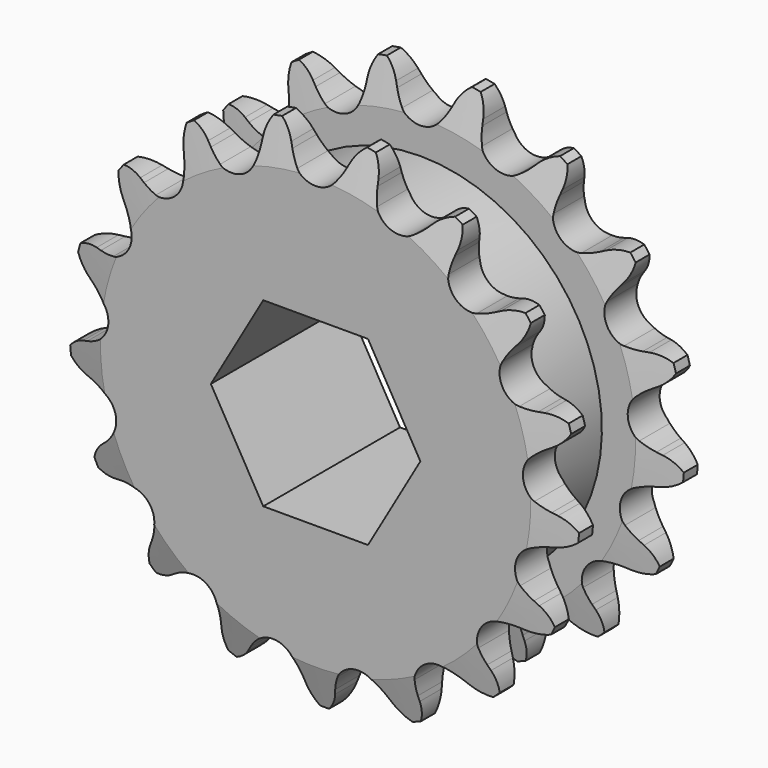
from build123d import *

# Parameters (mm, degrees)
F0_W     = 2.794
F0_H     = 5.1562
F0_H_2   = 9.525
F0_W_2   = 6.3754
F2_SIZE2 = 0.7874
F2_SIZE  = 2.794
F3_SIZE2 = 2.794
F3_SIZE  = 0.7874
F5_DEPTH = 11.9644
F7_DEPTH = 11.9644001


with BuildPart() as f1:
    # F0 (on Right) → F1 (revolve)
    with BuildSketch(Plane.YZ):
        with Locations((1.397, 15.2781)):
            Rectangle(F0_W, F0_H)
        with Locations((1.397, 7.9375)):
            Rectangle(F0_W, F0_H_2)
        with Locations((5.9817, 7.9375)):
            Rectangle(F0_W_2, F0_H_2)
        Polygon((9.1694, 12.7), (9.1694, 3.175), (11.9634, 3.175), (11.9634, 17.8562), (9.1694, 17.8562), align=None)
    revolve(axis=Axis((0, 5.8612824179, 0), (0, 1, 0)))

    # F2
    f2_edges = [f1.edges().sort_by_distance(p)[0] for p in [
        (0, 0, -17.8562),
        (0, 2.794, -17.8562),
    ]]
    chamfer(f2_edges, length=F2_SIZE, length2=F2_SIZE2)

    # F3
    f3_edges = [f1.edges().sort_by_distance(p)[0] for p in [
        (0, 11.9634, -17.8562),
        (0, 9.1694, -17.8562),
    ]]
    f3_side = f1.faces().sort_by_distance((0, 10.5664, -17.8562))[0]
    chamfer(f3_edges, length=F3_SIZE, length2=F3_SIZE2, reference=f3_side)

    # F4 (on face) → F5 (intersect, through all)
    with BuildSketch(Plane.XZ):
        with BuildLine():
            ThreePointArc((-1.3242360534, 15.2122382035), (-1.6399658803, 15.6610598977), (-1.8965305961, 16.1461380185))
            Line((-1.8965305961, 16.1461380185), (-2.0521895801, 16.4916881494))
            ThreePointArc((-2.0521895801, 16.4916881494), (-2.5760346788, 17.2647203326), (-3.330257216, 17.8153025772))
            ThreePointArc((-3.330257216, 17.8153025772), (-3.8346555392, 17.0294433181), (-4.0438751124, 16.1193775986))
            Line((-4.0438751124, 16.1193775986), (-4.0641956872, 15.7409311869))
            ThreePointArc((-4.0641956872, 15.7409311869), (-4.1282047311, 15.1959274447), (-4.26048093, 14.6633589102))
            ThreePointArc((-4.26048093, 14.6633589102), (-5.2658414425, 13.5927036364), (-6.7301076201, 13.7066204334))
            ThreePointArc((-6.7301076201, 13.7066204334), (-7.1866500122, 14.0110794305), (-7.6011199134, 14.3707194419))
            Line((-7.6011199134, 14.3707194419), (-7.8710946982, 14.6367048321))
            ThreePointArc((-7.8710946982, 14.6367048321), (-8.6388171391, 15.168301199), (-9.5410019573, 15.4092472461))
            ThreePointArc((-9.5410019573, 15.4092472461), (-9.7274542781, 14.4942456201), (-9.5937920631, 13.5700557825))
            Line((-9.5937920631, 13.5700557825), (-9.4760298224, 13.209824375))
            ThreePointArc((-9.4760298224, 13.209824375), (-9.3388384185, 12.6785007868), (-9.2697963558, 12.1341117436))
            ThreePointArc((-9.2697963558, 12.1341117436), (-9.8205018192, 10.7725773269), (-11.2270408598, 10.3498476229))
            ThreePointArc((-11.2270408598, 10.3498476229), (-11.7627372374, 10.4688250482), (-12.2791358671, 10.6544555737))
            Line((-12.2791358671, 10.6544555737), (-12.6269648621, 10.8049534224))
            ThreePointArc((-12.6269648621, 10.8049534224), (-13.5348794755, 11.0233189381), (-14.4631815157, 10.9220876889))
            ThreePointArc((-14.4631815157, 10.9220876889), (-14.3065064151, 10.0015197357), (-13.8480142347, 9.1880227387))
            Line((-13.8480142347, 9.1880227387), (-13.6080736217, 8.8946575831))
            ThreePointArc((-13.6080736217, 8.8946575831), (-13.2882102291, 8.4487723436), (-13.027174418, 7.9660855486))
            ThreePointArc((-13.027174418, 7.9660855486), (-13.0488490079, 6.4975547565), (-14.2077000202, 5.5952705404))
            ThreePointArc((-14.2077000202, 5.5952705404), (-14.7502016191, 5.5126978334), (-15.2987864809, 5.4992484419))
            Line((-15.2987864809, 5.4992484419), (-15.677493453, 5.5139331807))
            ThreePointArc((-15.677493453, 5.5139331807), (-16.6029813394, 5.3895763723), (-17.4320282672, 4.9598396679))
            ThreePointArc((-17.4320282672, 4.9598396679), (-16.9533855856, 4.1580331907), (-16.2319853493, 3.5650963114))
            Line((-16.2319853493, 3.5650963114), (-15.9022716734, 3.3782179976))
            ThreePointArc((-15.9022716734, 3.3782179976), (-15.4429356158, 3.0779903792), (-15.0251603889, 2.7221953587))
            ThreePointArc((-15.0251603889, 2.7221953587), (-14.5148768319, 1.345001412), (-15.2695305653, 0.0850211669))
            ThreePointArc((-15.2695305653, 0.0850211669), (-15.7455695385, -0.1879497707), (-16.252251207, -0.3986626643))
            Line((-16.252251207, -0.3986626643), (-16.610689681, -0.5217742908))
            ThreePointArc((-16.610689681, -0.5217742908), (-17.4287585731, -0.9720583473), (-18.0465830071, -1.6722621836))
            ThreePointArc((-18.0465830071, -1.6722621836), (-17.3106160908, -2.2470187772), (-16.423736898, -2.5393161275))
            Line((-16.423736898, -2.5393161275), (-16.0487798181, -2.5944686478))
            ThreePointArc((-16.0487798181, -2.5944686478), (-15.5120069753, -2.7084912417), (-14.9939151921, -2.8893423986))
            ThreePointArc((-14.9939151921, -2.8893423986), (-14.0205901101, -3.9892018261), (-14.2691263962, -5.4367107863))
            ThreePointArc((-14.2691263962, -5.4367107863), (-14.6144110424, -5.8632137169), (-15.0107593507, -6.2427321687))
            Line((-15.0107593507, -6.2427321687), (-15.3005202246, -6.4870132531))
            ThreePointArc((-15.3005202246, -6.4870132531), (-15.9006853854, -7.2024112007), (-16.2238467122, -8.078515761))
            ThreePointArc((-16.2238467122, -8.078515761), (-15.3299519715, -8.3485984081), (-14.3973717715, -8.3007798527))
            Line((-14.3973717715, -8.3007798527), (-14.027811319, -8.2167579259))
            ThreePointArc((-14.027811319, -8.2167579259), (-13.4860958377, -8.1291761121), (-12.9376586644, -8.1106584546))
            ThreePointArc((-12.9376586644, -8.1106584546), (-11.6327450031, -8.7846412526), (-11.3415976393, -10.2241848219))
            ThreePointArc((-11.3415976393, -10.2241848219), (-11.5094953539, -10.7466181614), (-11.7419812666, -11.2436861015))
            Line((-11.7419812666, -11.2436861015), (-11.9239307288, -11.5761451297))
            ThreePointArc((-11.9239307288, -11.5761451297), (-12.2251365276, -12.4600385116), (-12.2099900194, -13.3937210202))
            ThreePointArc((-12.2099900194, -13.3937210202), (-11.2788928923, -13.3226535627), (-10.4265618087, -12.9411772625))
            Line((-10.4265618087, -12.9411772625), (-10.1123091705, -12.7293285155))
            ThreePointArc((-10.1123091705, -12.7293285155), (-9.6388127283, -12.4519707033), (-9.134099644, -12.2365851436))
            ThreePointArc((-9.134099644, -12.2365851436), (-7.6738332242, -12.3936662006), (-6.8823232753, -13.6308260432))
            ThreePointArc((-6.8823232753, -13.6308260432), (-6.8501585414, -14.1786322741), (-6.8873835479, -14.7261179229))
            Line((-6.8873835479, -14.7261179229), (-6.9369483152, -15.101854461))
            ThreePointArc((-6.9369483152, -15.101854461), (-6.89851524, -16.0348685779), (-6.5471065166, -16.9000300385))
            ThreePointArc((-6.5471065166, -16.9000300385), (-5.7045568294, -16.4974105304), (-5.0475868981, -15.8337969734))
            Line((-5.0475868981, -15.8337969734), (-4.8310836342, -15.5227327534))
            ThreePointArc((-4.8310836342, -15.5227327534), (-4.4897545494, -15.0930576522), (-4.096929853, -14.7098932037))
            ThreePointArc((-4.096929853, -14.7098932037), (-2.6785277462, -14.3288578525), (-1.4935530166, -15.1965486763))
            ThreePointArc((-1.4935530166, -15.1965486763), (-1.26566986, -15.6957435317), (-1.1026065168, -16.2197059185))
            Line((-1.1026065168, -16.2197059185), (-1.0130925928, -16.587974665))
            ThreePointArc((-1.0130925928, -16.587974665), (-0.6402112432, -17.4441007906), (0, -18.1238963537))
            ThreePointArc((0, -18.1238963537), (0.6402112432, -17.4441007906), (1.0130925928, -16.587974665))
            Line((1.0130925928, -16.587974665), (1.1026065168, -16.2197059185))
            ThreePointArc((1.1026065168, -16.2197059185), (1.26566986, -15.6957435317), (1.4935530166, -15.1965486763))
            ThreePointArc((1.4935530166, -15.1965486763), (2.6785277462, -14.3288578525), (4.096929853, -14.7098932037))
            ThreePointArc((4.096929853, -14.7098932037), (4.4897545494, -15.0930576522), (4.8310836342, -15.5227327534))
            Line((4.8310836342, -15.5227327534), (5.0475868981, -15.8337969734))
            ThreePointArc((5.0475868981, -15.8337969734), (5.7045568294, -16.4974105304), (6.5471065166, -16.9000300385))
            ThreePointArc((6.5471065166, -16.9000300385), (6.89851524, -16.0348685779), (6.9369483152, -15.101854461))
            Line((6.9369483152, -15.101854461), (6.8873835479, -14.7261179229))
            ThreePointArc((6.8873835479, -14.7261179229), (6.8501585414, -14.1786322741), (6.8823232753, -13.6308260432))
            ThreePointArc((6.8823232753, -13.6308260432), (7.6738332242, -12.3936662006), (9.134099644, -12.2365851436))
            ThreePointArc((9.134099644, -12.2365851436), (9.6388127283, -12.4519707033), (10.1123091705, -12.7293285155))
            Line((10.1123091705, -12.7293285155), (10.4265618087, -12.9411772625))
            ThreePointArc((10.4265618087, -12.9411772625), (11.2788928923, -13.3226535627), (12.2099900194, -13.3937210202))
            ThreePointArc((12.2099900194, -13.3937210202), (12.2251365276, -12.4600385116), (11.9239307288, -11.5761451297))
            Line((11.9239307288, -11.5761451297), (11.7419812666, -11.2436861015))
            ThreePointArc((11.7419812666, -11.2436861015), (11.5094953539, -10.7466181614), (11.3415976393, -10.2241848219))
            ThreePointArc((11.3415976393, -10.2241848219), (11.6327450031, -8.7846412526), (12.9376586644, -8.1106584546))
            ThreePointArc((12.9376586644, -8.1106584546), (13.4860958377, -8.1291761121), (14.027811319, -8.2167579259))
            Line((14.027811319, -8.2167579259), (14.3973717715, -8.3007798527))
            ThreePointArc((14.3973717715, -8.3007798527), (15.3299519715, -8.3485984081), (16.2238467122, -8.078515761))
            ThreePointArc((16.2238467122, -8.078515761), (15.9006853854, -7.2024112007), (15.3005202246, -6.4870132531))
            Line((15.3005202246, -6.4870132531), (15.0107593507, -6.2427321687))
            ThreePointArc((15.0107593507, -6.2427321687), (14.6144110424, -5.8632137169), (14.2691263962, -5.4367107863))
            ThreePointArc((14.2691263962, -5.4367107863), (14.0205901101, -3.9892018261), (14.9939151921, -2.8893423986))
            ThreePointArc((14.9939151921, -2.8893423986), (15.5120069753, -2.7084912417), (16.0487798181, -2.5944686478))
            Line((16.0487798181, -2.5944686478), (16.423736898, -2.5393161275))
            ThreePointArc((16.423736898, -2.5393161275), (17.3106160908, -2.2470187772), (18.0465830071, -1.6722621836))
            ThreePointArc((18.0465830071, -1.6722621836), (17.4287585731, -0.9720583473), (16.610689681, -0.5217742908))
            Line((16.610689681, -0.5217742908), (16.252251207, -0.3986626643))
            ThreePointArc((16.252251207, -0.3986626643), (15.7455695385, -0.1879497707), (15.2695305653, 0.0850211669))
            ThreePointArc((15.2695305653, 0.0850211669), (14.5148768319, 1.345001412), (15.0251603889, 2.7221953587))
            ThreePointArc((15.0251603889, 2.7221953587), (15.4429356158, 3.0779903792), (15.9022716734, 3.3782179976))
            Line((15.9022716734, 3.3782179976), (16.2319853493, 3.5650963114))
            ThreePointArc((16.2319853493, 3.5650963114), (16.9533855856, 4.1580331907), (17.4320282672, 4.9598396679))
            ThreePointArc((17.4320282672, 4.9598396679), (16.6029813394, 5.3895763723), (15.677493453, 5.5139331807))
            Line((15.677493453, 5.5139331807), (15.2987864809, 5.4992484419))
            ThreePointArc((15.2987864809, 5.4992484419), (14.7502016191, 5.5126978334), (14.2077000202, 5.5952705404))
            ThreePointArc((14.2077000202, 5.5952705404), (13.0488490079, 6.4975547565), (13.027174418, 7.9660855486))
            ThreePointArc((13.027174418, 7.9660855486), (13.2882102291, 8.4487723436), (13.6080736217, 8.8946575831))
            Line((13.6080736217, 8.8946575831), (13.8480142347, 9.1880227387))
            ThreePointArc((13.8480142347, 9.1880227387), (14.3065064151, 10.0015197357), (14.4631815157, 10.9220876889))
            ThreePointArc((14.4631815157, 10.9220876889), (13.5348794755, 11.0233189381), (12.6269648621, 10.8049534224))
            Line((12.6269648621, 10.8049534224), (12.2791358671, 10.6544555737))
            ThreePointArc((12.2791358671, 10.6544555737), (11.7627372374, 10.4688250482), (11.2270408598, 10.3498476229))
            ThreePointArc((11.2270408598, 10.3498476229), (9.8205018192, 10.7725773269), (9.2697963558, 12.1341117436))
            ThreePointArc((9.2697963558, 12.1341117436), (9.3388384185, 12.6785007868), (9.4760298224, 13.209824375))
            Line((9.4760298224, 13.209824375), (9.5937920631, 13.5700557825))
            ThreePointArc((9.5937920631, 13.5700557825), (9.7274542781, 14.4942456201), (9.5410019573, 15.4092472461))
            ThreePointArc((9.5410019573, 15.4092472461), (8.6388171391, 15.168301199), (7.8710946982, 14.6367048321))
            Line((7.8710946982, 14.6367048321), (7.6011199134, 14.3707194419))
            ThreePointArc((7.6011199134, 14.3707194419), (7.1866500122, 14.0110794305), (6.7301076201, 13.7066204334))
            ThreePointArc((6.7301076201, 13.7066204334), (5.2658414425, 13.5927036364), (4.26048093, 14.6633589102))
            ThreePointArc((4.26048093, 14.6633589102), (4.1282047311, 15.1959274447), (4.0641956872, 15.7409311869))
            Line((4.0641956872, 15.7409311869), (4.0438751124, 16.1193775986))
            ThreePointArc((4.0438751124, 16.1193775986), (3.8346555392, 17.0294433181), (3.330257216, 17.8153025772))
            ThreePointArc((3.330257216, 17.8153025772), (2.5760346788, 17.2647203326), (2.0521895801, 16.4916881494))
            Line((2.0521895801, 16.4916881494), (1.8965305961, 16.1461380185))
            ThreePointArc((1.8965305961, 16.1461380185), (1.6399658803, 15.6610598977), (1.3242360534, 15.2122382035))
            ThreePointArc((1.3242360534, 15.2122382035), (0, 14.57706), (-1.3242360534, 15.2122382035))
        make_face()
    extrude(amount=-F5_DEPTH, mode=Mode.INTERSECT)

    # F6 (on face) → F7 (cut, through all)
    with BuildSketch(Plane.XZ):
        Polygon((3.6661742094, 6.35), (-3.6661742094, 6.35), (-7.3323484187, 0), (-3.6661742094, -6.35), (3.6661742094, -6.35), (7.3323484187, 0), align=None)
    extrude(amount=-F7_DEPTH, mode=Mode.SUBTRACT)


solid = f1.part
